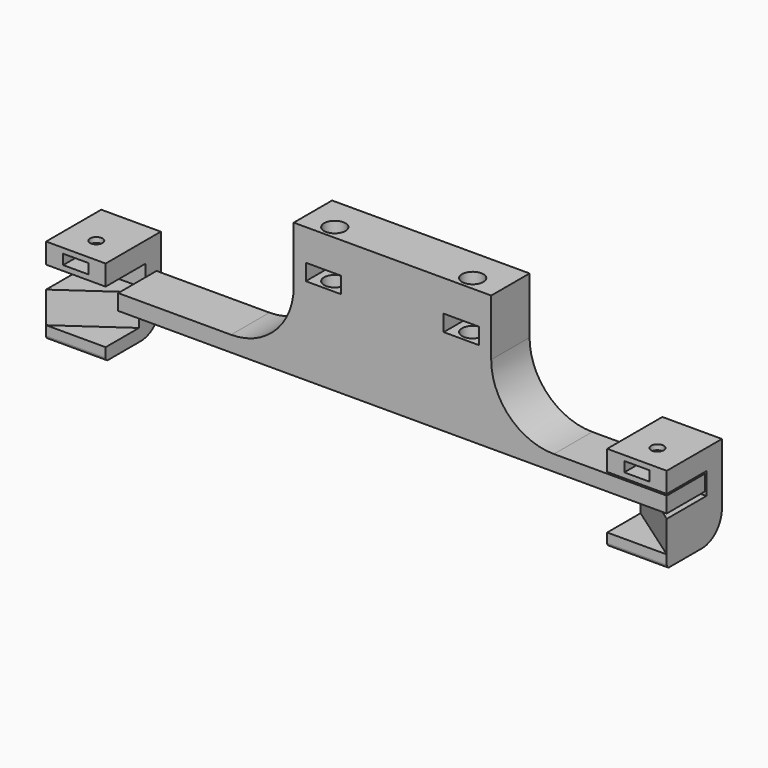
from build123d import *

# Parameters (mm, degrees)
F0_W      = 11.3
F0_H      = 5.2
F1_DEPTH  = 15.3
F2_R      = 3.4
F3_DEPTH  = 43
F5_DEPTH  = 19
F6_W      = 8.1
F6_H      = 3.2
F7_DEPTH  = 22
F8_R      = 2
F9_DEPTH  = 6.5
F12_DEPTH = 10
F14_DEPTH = 10
F15_R     = 20


with BuildPart() as f1:
    # F0 (on Front) → F1 (new body)
    with BuildSketch(Plane.XZ):
        Polygon((-87.5, 5), (-87.5, 0), (87.5, 0), (87.5, 5), (31.5, 5), (31.5, 43), (-31.5, 43), (-31.5, 5), align=None)
        with Locations((-22, 30.4)):
            Rectangle(F0_W, F0_H, mode=Mode.SUBTRACT)
        with Locations((22, 30.4)):
            Rectangle(F0_W, F0_H, mode=Mode.SUBTRACT)
    extrude(amount=F1_DEPTH)

    # F2 (on face) → F3 (cut, through all)
    with BuildSketch(Plane.XY.offset(43)):
        with Locations((-22, -10.8)):
            Circle(F2_R)
        with Locations((22, -10.8)):
            Circle(F2_R)
    extrude(amount=-F3_DEPTH, mode=Mode.SUBTRACT)

    # F15
    f15_edges = [f1.edges().sort_by_distance(p)[0] for p in [
        (31.5, -7.65, 5),
        (-31.5, -7.65, 5),
    ]]
    fillet(f15_edges, radius=F15_R)


with BuildPart() as f5:
    # F4 (on face) → F5 (new body)
    with BuildSketch(Plane.YZ.offset(87.5)):
        with BuildLine():
            Line((6.7, 12), (-15.3, 12))
            Line((-15.3, 12), (-15.3, 5.5))
            Line((-15.3, 5.5), (0.5, 5.5))
            Line((0.5, 5.5), (0.5, -11.5))
            Line((0.5, -11.5), (-15.3, -11.5))
            Line((-15.3, -11.5), (-15.3, -14.5))
            ThreePointArc((-15.3, -14.5), (-15.0071067812, -15.2071067812), (-14.3, -15.5))
            Line((-14.3, -15.5), (-1.3, -15.5))
            ThreePointArc((-1.3, -15.5), (4.3568542495, -13.1568542495), (6.7, -7.5))
            Line((6.7, -7.5), (6.7, 12))
        make_face()
    extrude(amount=-F5_DEPTH)

    # F6 (on face) → F7 (cut, through all)
    with BuildSketch(Plane.XZ.offset(15.3)):
        with Locations((78, 8.75)):
            Rectangle(F6_W, F6_H)
    extrude(amount=-F7_DEPTH, mode=Mode.SUBTRACT)

    # F8 (on face) → F9 (cut, through all)
    with BuildSketch(Plane.XY.offset(12)):
        with Locations((78, -7.15)):
            Circle(F8_R)
    extrude(amount=-F9_DEPTH, mode=Mode.SUBTRACT)


with BuildPart() as f10_1:
    # F10: copy of F5
    add(f5.part.moved(Location((-179, 0, 0))))

    # F13 (on face) → F14 (join)
    with BuildSketch(Plane.XY.offset(-11.5)):
        Polygon((-91.5, -2), (-91.5, 0.5), (-110.5, 0.5), (-110.5, -15.3), align=None)
    extrude(amount=F14_DEPTH)


with BuildPart() as f5_1:
    add(f5.part)

    # F11 (on face) → F12 (join)
    with BuildSketch(Plane.XY.offset(-11.5)):
        Polygon((87.5, 0.5), (68.5, 0.5), (68.5, -2), (87.5, -15.3), align=None)
    extrude(amount=F12_DEPTH)


solid = Compound([f1.part, f10_1.part, f5_1.part])
